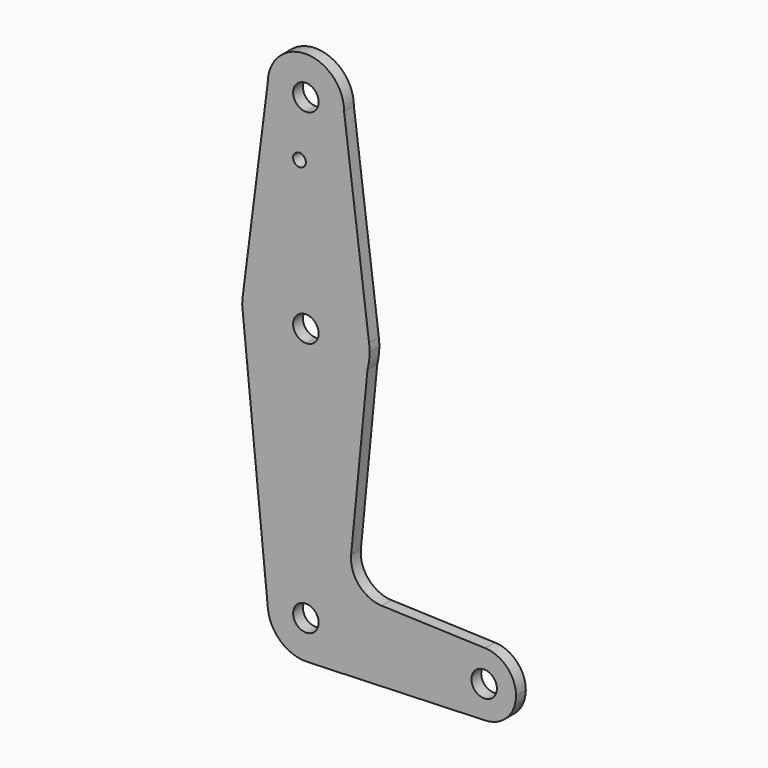
from build123d import *

# Parameters (mm, degrees)
F0_R     = 1.5875
F1_DEPTH = 3.048


with BuildPart() as f1:
    # F0 (on Front) → F1 (new body)
    with BuildSketch(Plane.XZ):
        with BuildLine():
            ThreePointArc((0, 41.275), (6.7351920908, 44.0648079092), (9.525, 50.8))
            ThreePointArc((9.525, 50.8), (0, 60.325), (-9.525, 50.8))
            ThreePointArc((-9.525, 50.8), (-6.7351920908, 44.0648079092), (0, 41.275))
        make_face()
        with BuildLine():
            ThreePointArc((3.175, 50.8), (2.2450640303, 48.5549359697), (0, 47.625))
            ThreePointArc((0, 47.625), (-2.2450640303, 53.0450640303), (3.175, 50.8))
        make_face(mode=Mode.SUBTRACT)
        with BuildLine():
            ThreePointArc((0, 15.875), (10.4912828548, 11.9142187767), (15.7474569047, 2.0082893304))
            Line((15.7474569047, 2.0082893304), (9.525, 50.8))
            ThreePointArc((9.525, 50.8), (6.7351920908, 44.0648079092), (0, 41.275))
            Line((0, 41.275), (0, 36.5252))
            Line((0, 36.5252), (0, 15.875))
        make_face()
        with BuildLine():
            ThreePointArc((-15.7474569047, 2.0082893304), (-10.4912828548, 11.9142187767), (0, 15.875))
            Line((0, 15.875), (0, 36.5252))
            Line((0, 36.5252), (0, 41.275))
            ThreePointArc((0, 41.275), (-6.7351920908, 44.0648079092), (-9.525, 50.8))
            Line((-9.525, 50.8), (-15.7474569047, 2.0082893304))
        make_face()
        with Locations((-1.6000554923, 36.5252)):
            Circle(F0_R, mode=Mode.SUBTRACT)
        with BuildLine():
            Line((0, 3.175), (0, 15.875))
            ThreePointArc((0, 15.875), (-10.4912828548, 11.9142187767), (-15.7474569047, 2.0082893304))
            ThreePointArc((-15.7474569047, 2.0082893304), (-15.8430821396, 1.0061676396), (-15.875, 0))
            Line((-15.875, 0), (-15.5652161214, -3.1208447723))
            ThreePointArc((-15.5652161214, -3.1208447723), (-10.0616155323, -12.27923116), (0, -15.875))
            Line((0, -15.875), (0, -3.175))
            ThreePointArc((0, -3.175), (-3.175, 0), (0, 3.175))
        make_face()
        with BuildLine():
            ThreePointArc((15.355668847, -4.0272893192), (15.7446319097, -2.030317962), (15.875, 0))
            ThreePointArc((15.875, 0), (15.8430821396, 1.0061676396), (15.7474569047, 2.0082893304))
            ThreePointArc((15.7474569047, 2.0082893304), (10.4912828548, 11.9142187767), (0, 15.875))
            Line((0, 15.875), (0, 3.175))
            ThreePointArc((0, 3.175), (2.2450640303, 2.2450640303), (3.175, 0))
            ThreePointArc((3.175, 0), (2.2450640303, -2.2450640303), (0, -3.175))
            Line((0, -3.175), (0, -15.875))
            ThreePointArc((0, -15.875), (9.6974843918, -12.5687875896), (15.355668847, -4.0272893192))
        make_face()
        with BuildLine():
            Line((11.2789205134, -45.9332246817), (15.355668847, -4.0272893192))
            ThreePointArc((15.355668847, -4.0272893192), (9.6974843918, -12.5687875896), (0, -15.875))
            Line((0, -15.875), (0, -53.975))
            ThreePointArc((0, -53.975), (6.7351920908, -56.7648079092), (9.525, -63.5))
            Line((9.525, -63.5), (36.5125, -63.5))
            ThreePointArc((36.5125, -63.5), (38.9380895153, -57.7883672161), (44.7324052746, -55.5675253854))
            Line((44.7324052746, -55.5675253854), (18.9089078141, -54.6481789967))
            ThreePointArc((18.9089078141, -54.6481789967), (13.210127357, -51.9399668718), (11.2789205134, -45.9332246817))
        make_face()
        with BuildLine():
            Line((0, -53.975), (0, -15.875))
            ThreePointArc((0, -15.875), (-10.0616155323, -12.27923116), (-15.5652161214, -3.1208447723))
            Line((-15.5652161214, -3.1208447723), (-9.4784185161, -64.440854629))
            ThreePointArc((-9.4784185161, -64.440854629), (-7.0600023138, -57.1060972537), (0, -53.975))
        make_face()
        with BuildLine():
            Line((0, -60.325), (0, -53.975))
            ThreePointArc((0, -53.975), (-7.0600023138, -57.1060972537), (-9.4784185161, -64.440854629))
            ThreePointArc((-9.4784185161, -64.440854629), (-6.3939027463, -70.5600023138), (0, -73.025))
            Line((0, -73.025), (0.6773435479, -73.000885786))
            ThreePointArc((0.6773435479, -73.000885786), (6.9705567315, -69.9912990883), (9.525, -63.5))
            Line((9.525, -63.5), (3.175, -63.5))
            ThreePointArc((3.175, -63.5), (-2.2450640303, -65.7450640303), (0, -60.325))
        make_face()
        with BuildLine():
            ThreePointArc((9.525, -63.5), (6.7351920908, -56.7648079092), (0, -53.975))
            Line((0, -53.975), (0, -60.325))
            ThreePointArc((0, -60.325), (2.2450640303, -61.2549359697), (3.175, -63.5))
            Line((3.175, -63.5), (9.525, -63.5))
        make_face()
        with BuildLine():
            Line((36.5125, -63.5), (9.525, -63.5))
            ThreePointArc((9.525, -63.5), (6.9705567315, -69.9912990883), (0.6773435479, -73.000885786))
            Line((0.6773435479, -73.000885786), (44.7324052746, -71.4324746146))
            ThreePointArc((44.7324052746, -71.4324746146), (38.9380895153, -69.2116327839), (36.5125, -63.5))
        make_face()
        with BuildLine():
            ThreePointArc((52.3875, -63.5), (50.1616327839, -57.9880895153), (44.7324052746, -55.5675253854))
            ThreePointArc((44.7324052746, -55.5675253854), (38.9380895153, -57.7883672161), (36.5125, -63.5))
            ThreePointArc((36.5125, -63.5), (38.9380895153, -69.2116327839), (44.7324052746, -71.4324746146))
            ThreePointArc((44.7324052746, -71.4324746146), (50.1616327839, -69.0119104847), (52.3875, -63.5))
        make_face()
        with BuildLine():
            ThreePointArc((47.625, -63.5), (44.45, -66.675), (41.275, -63.5))
            ThreePointArc((41.275, -63.5), (44.45, -60.325), (47.625, -63.5))
        make_face(mode=Mode.SUBTRACT)
    extrude(amount=F1_DEPTH)


solid = f1.part
